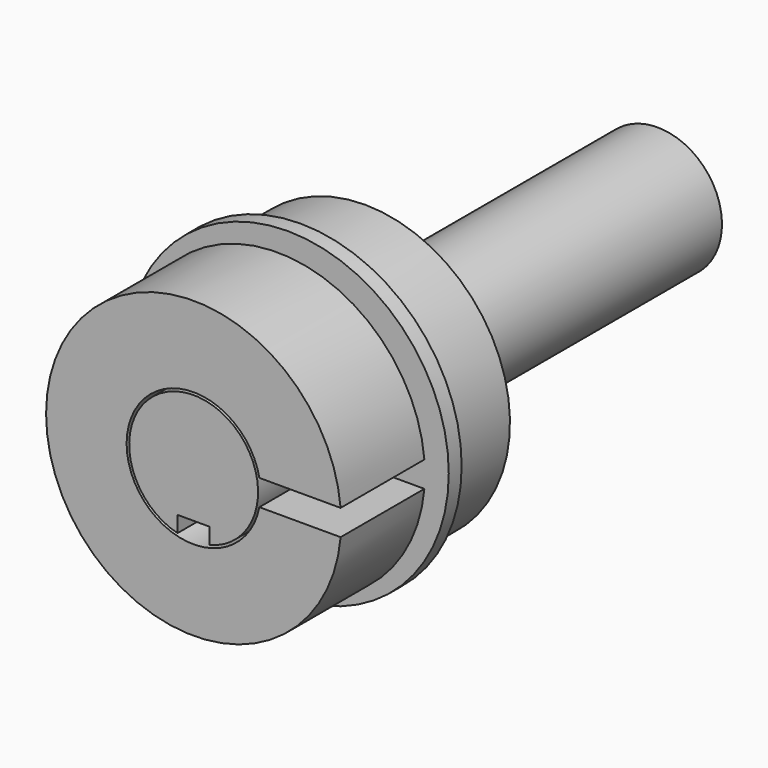
from build123d import *

# Parameters (mm, degrees)
F1_DEPTH = 28.575
F3_DEPTH = 10.31875


with BuildPart() as f1:
    # F0 (on Front) → F1 (new body, symmetric)
    with BuildSketch(Plane.XZ):
        with BuildLine():
            Line((1.5875, -4.560861), (1.5875, -6.148361))
            ThreePointArc((1.5875, -6.148361), (0, 6.35), (-1.5875, -6.148361))
            Line((-1.5875, -6.148361), (-1.5875, -4.560861))
            Line((-1.5875, -4.560861), (0, -4.560861))
            Line((0, -4.560861), (1.5875, -4.560861))
        make_face()
    extrude(amount=F1_DEPTH, both=True)


with BuildPart() as f3:
    # F2 (on face) → F3 (new body)
    with BuildSketch(Plane.XZ.offset(28.575)):
        with BuildLine():
            ThreePointArc((6.480734, -1.27), (-6.604, 0), (6.480734, 1.27))
            Line((6.480734, 1.27), (14.485935, 1.27))
            ThreePointArc((14.485935, 1.27), (-14.5415, 0), (14.485935, -1.27))
            Line((14.485935, -1.27), (6.480734, -1.27))
        make_face()
    extrude(amount=-F3_DEPTH)


with BuildPart() as f5:
    # F4 (on Right) → F5 (revolve)
    with BuildSketch(Plane.YZ):
        Polygon((-16.98625, 15.875), (-16.98625, 6.604), (-7.46125, 6.604), (-7.46125, 14.2875), (-15.39875, 14.2875), (-15.39875, 15.875), align=None)
    revolve(axis=Axis((0, -14.2875, 0), (0, -1, 0)))


solid = Compound([f1.part, f3.part, f5.part])
